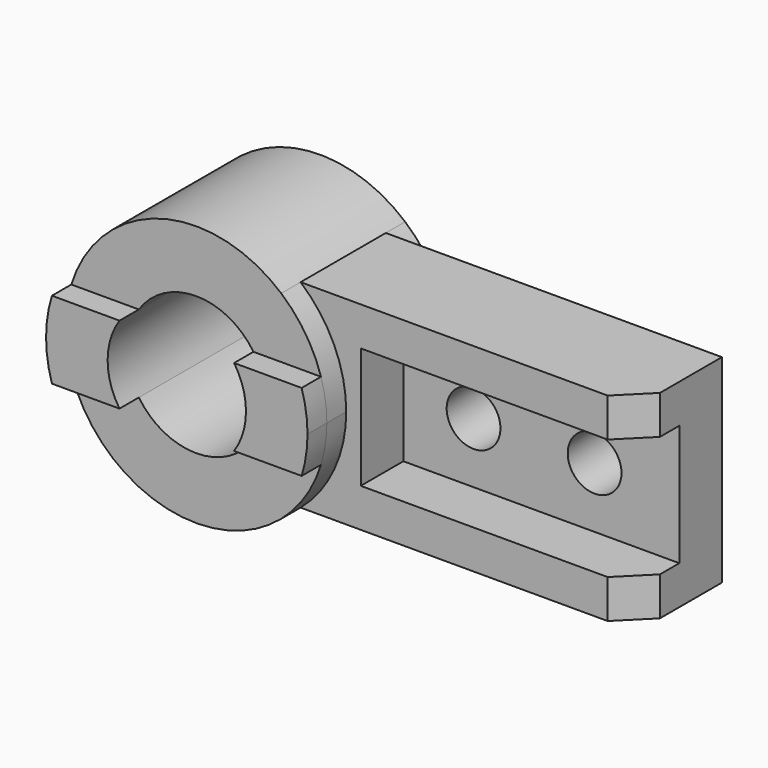
from build123d import *

# Parameters (mm, degrees)
F1_DEPTH  = 22
F0_R      = 28.575
F2_DEPTH  = 32
F3_W      = 22
F3_H      = 50
F4_DEPTH  = 114
F5_R      = 11.1
F6_DEPTH  = 32.001
F8_DEPTH  = 10
F9_DEPTH  = 64.001
F10_SIZE2 = 12
F10_SIZE  = 12


with BuildPart() as f1:
    # F0 (on Front) → F1 (new body, symmetric)
    with BuildSketch(Plane.XZ):
        with BuildLine():
            ThreePointArc((35.142567, 41), (49.05965, 22.564368), (54, 0))
            ThreePointArc((54, 0), (49.05965, -22.564368), (35.142567, -41))
            Line((35.142567, -41), (174, -41))
            Line((174, -41), (174, 41))
            Line((174, 41), (35.142567, 41))
        make_face()
    extrude(amount=F1_DEPTH, both=True)

    # F0 (on Front) → F2 (join, symmetric)
    with BuildSketch(Plane.XZ):
        with BuildLine():
            ThreePointArc((35.142567, -41), (49.05965, -22.564368), (54, 0))
            ThreePointArc((54, 0), (49.05965, 22.564368), (35.142567, 41))
            ThreePointArc((35.142567, 41), (-54, 0), (35.142567, -41))
        make_face()
        Circle(F0_R, mode=Mode.SUBTRACT)
        Circle(F0_R)
    extrude(amount=F2_DEPTH, both=True)

    # F3 (on face) → F4 (cut)
    with BuildSketch(Plane.YZ.offset(174)):
        with Locations((-11, 0)):
            Rectangle(F3_W, F3_H)
    extrude(amount=-F4_DEPTH, mode=Mode.SUBTRACT)

    # F5 (on face) → F6 (cut, through all)
    with BuildSketch(Plane.XZ):
        with Locations((139, 0)):
            Circle(F5_R)
        with Locations((89, 0)):
            Circle(F5_R)
    extrude(amount=-F6_DEPTH, mode=Mode.SUBTRACT)

    # F7 (on face) → F8 (join)
    with BuildSketch(Plane.XZ.offset(32)):
        with BuildLine():
            ThreePointArc((-23.675528, -16), (-28.575, 0), (-23.675528, 16))
            Line((-23.675528, 16), (-51.575188, 16))
            ThreePointArc((-51.575188, 16), (-54, 0), (-51.575188, -16))
            Line((-51.575188, -16), (-23.675528, -16))
        make_face()
        with BuildLine():
            ThreePointArc((23.675528, 16), (27.322691, 8.366672), (28.575, 0))
            ThreePointArc((28.575, 0), (27.322691, -8.366672), (23.675528, -16))
            Line((23.675528, -16), (51.575188, -16))
            ThreePointArc((51.575188, -16), (53.390356, -8.091349), (54, 0))
            ThreePointArc((54, 0), (53.390356, 8.091349), (51.575188, 16))
            Line((51.575188, 16), (23.675528, 16))
        make_face()
    extrude(amount=F8_DEPTH)

    # F7 (on face) → F9 (cut, through all)
    with BuildSketch(Plane.XZ.offset(32)):
        with BuildLine():
            ThreePointArc((23.675528, -16), (27.322691, -8.366672), (28.575, 0))
            ThreePointArc((28.575, 0), (27.322691, 8.366672), (23.675528, 16))
            ThreePointArc((23.675528, 16), (0, 28.575), (-23.675528, 16))
            ThreePointArc((-23.675528, 16), (-28.575, 0), (-23.675528, -16))
            ThreePointArc((-23.675528, -16), (0, -28.575), (23.675528, -16))
        make_face()
    extrude(amount=-F9_DEPTH, mode=Mode.SUBTRACT)

    # F10
    f10_edges = [f1.edges().sort_by_distance(p)[0] for p in [
        (174, -22, -33),
        (174, -22, 33),
    ]]
    chamfer(f10_edges, length=F10_SIZE, length2=F10_SIZE2)


solid = f1.part
